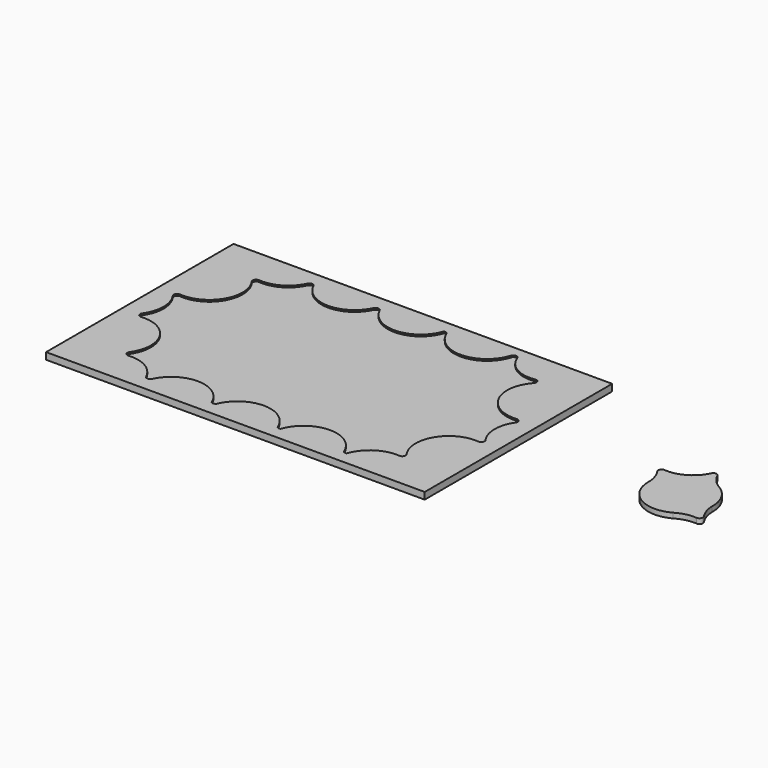
from build123d import *

# Parameters (mm, degrees)
PAD001_DEPTH         = 3
SKETCH004_W          = 769.720642
SKETCH004_H          = 484.196625
SKETCH004_W_2        = 86.21834
SKETCH004_H_2        = 85.329529
POCKET001_DEPTH      = 100
POCKET001_DEPTH_BACK = -100
SKETCH002_W          = 223
SKETCH002_H          = 138
PAD_DEPTH            = 3
PAD_DEPTH_BACK       = -1
POCKET_DEPTH         = 3


with BuildPart() as pieces:
    # Sketch003 → Pad001 (new body)
    with BuildSketch(Plane.XY):
        with BuildLine():
            ThreePointArc((-205.226021, 141.050401), (-197.53634, 132.633448), (-186.413146, 130.133278))
            ThreePointArc((-184.604126, 126.998191), (-184.513671, 129.139853), (-186.413146, 130.133278))
            ThreePointArc((-184.604126, 126.998191), (-188, 116.15736), (-184.603475, 105.316733))
            ThreePointArc((-186.413076, 102.182578), (-184.513939, 103.175545), (-184.603475, 105.316733))
            ThreePointArc((-186.413076, 102.182578), (-197.500014, 99.70344), (-205.190465, 91.341426))
            ThreePointArc((-208.809364, 91.341063), (-206.999799, 90.193237), (-205.190465, 91.341426))
            ThreePointArc((-208.809364, 91.341063), (-216.499836, 99.703353), (-227.586977, 102.182573))
            ThreePointArc((-229.396171, 105.317242), (-229.48623, 103.175836), (-227.586977, 102.182573))
            ThreePointArc((-229.396171, 105.317242), (-226, 116.158224), (-229.396506, 126.999102))
            ThreePointArc((-227.586983, 130.133289), (-229.486084, 129.140277), (-229.396506, 126.999102))
            ThreePointArc((-227.586983, 130.133289), (-216.484349, 132.62146), (-208.794156, 141.007186))
            ThreePointArc((-205.226021, 141.050401), (-207.023366, 142.125033), (-208.794156, 141.007186))
        make_face()
        with BuildLine():
            ThreePointArc((208.900742, -91.192405), (212.086998, -95.848377), (216.5, -99.363448))
            ThreePointArc((197.5, -99.363448), (207, -134.817931), (216.5, -99.363448))
            ThreePointArc((197.5, -99.363448), (201.953007, -95.805228), (205.150235, -91.086338))
            ThreePointArc((208.900742, -91.192405), (207.062429, -89.833156), (205.150235, -91.086338))
        make_face()
        with BuildLine():
            ThreePointArc((-67.190475, 140.634458), (-59.500032, 132.272432), (-48.413093, 129.793282))
            ThreePointArc((-46.60383, 126.658618), (-46.513788, 128.800055), (-48.413093, 129.793282))
            ThreePointArc((-46.60383, 126.658618), (-50, 115.817636), (-46.603494, 104.97676))
            ThreePointArc((-48.413017, 101.842573), (-46.513916, 102.835584), (-46.603494, 104.97676))
            ThreePointArc((-48.413017, 101.842573), (-54.146025, 101.451092), (-59.499796, 99.363566))
            ThreePointArc((-78.499746, 99.363301), (-68.999736, 96.817931), (-59.499796, 99.363566))
            ThreePointArc((-78.499746, 99.363301), (-83.85368, 101.451026), (-89.586907, 101.842579))
            ThreePointArc((-91.396506, 104.97676), (-91.486065, 102.835551), (-89.586907, 101.842579))
            ThreePointArc((-91.396506, 104.97676), (-88, 115.817641), (-91.396176, 126.658626))
            ThreePointArc((-89.586977, 129.793288), (-91.486228, 128.800029), (-91.396176, 126.658626))
            ThreePointArc((-89.586977, 129.793288), (-78.499829, 132.272512), (-70.809358, 140.634812))
            ThreePointArc((-67.190475, 140.634458), (-68.999804, 141.782624), (-70.809358, 140.634812))
        make_face()
        with BuildLine():
            ThreePointArc((70.809356, 140.634817), (78.499826, 132.272514), (89.586974, 129.793288))
            ThreePointArc((91.396502, 126.659096), (91.486084, 128.800278), (89.586974, 129.793288))
            ThreePointArc((91.396502, 126.659096), (88.868997, 121.498312), (88, 115.817924))
            ThreePointArc((59.500281, 99.363286), (78.500138, 99.363527), (88, 115.817924))
            ThreePointArc((59.500281, 99.363286), (54.146298, 101.451031), (48.413016, 101.842573))
            ThreePointArc((46.60381, 104.977215), (46.513777, 102.835825), (48.413016, 101.842573))
            ThreePointArc((46.60381, 104.977215), (50, 115.818206), (46.603496, 126.659098))
            ThreePointArc((48.413024, 129.793288), (46.513917, 128.800279), (46.603496, 126.659098))
            ThreePointArc((48.413024, 129.793288), (59.500172, 132.272513), (67.190643, 140.634813))
            ThreePointArc((70.809356, 140.634817), (68.999998, 141.782624), (67.190643, 140.634813))
        make_face()
        with BuildLine():
            ThreePointArc((208.809525, 140.634456), (216.499968, 132.272432), (227.586905, 129.793282))
            ThreePointArc((229.396503, 126.659097), (229.486066, 128.800309), (227.586905, 129.793282))
            ThreePointArc((229.396503, 126.659097), (226.868998, 121.498314), (226, 115.817926))
            ThreePointArc((188, 115.817931), (206.999998, 96.817931), (226, 115.817926))
            ThreePointArc((188, 115.817931), (187.131001, 121.498318), (184.603495, 126.6591))
            ThreePointArc((186.413023, 129.793288), (184.513917, 128.800279), (184.603495, 126.6591))
            ThreePointArc((186.413023, 129.793288), (197.500171, 132.272512), (205.190642, 140.634812))
            ThreePointArc((208.809525, 140.634456), (207.000197, 141.782624), (205.190642, 140.634812))
        make_face()
        with BuildLine():
            ThreePointArc((-227.579289, 14.314715), (-216.496489, 16.79651), (-208.809358, 25.156881))
            ThreePointArc((-205.190852, 25.157326), (-207.000246, 26.304694), (-208.809358, 25.156881))
            ThreePointArc((-205.190852, 25.157326), (-201.985159, 20.387577), (-197.5, 16.794483))
            ThreePointArc((-188, 0.339994), (-190.545516, 9.839997), (-197.5, 16.794483))
            ThreePointArc((-188, 0.339994), (-187.130999, -5.340395), (-184.603489, -10.501177))
            ThreePointArc((-186.41309, -13.635352), (-184.513936, -12.642381), (-184.603489, -10.501177))
            ThreePointArc((-186.41309, -13.635352), (-197.500044, -16.114508), (-205.190488, -24.476555))
            ThreePointArc((-208.80952, -24.476537), (-207.00001, -25.624693), (-205.190488, -24.476555))
            ThreePointArc((-208.80952, -24.476537), (-212.014877, -19.707537), (-216.499338, -16.114865))
            ThreePointArc((-226, 0.339999), (-223.454291, -9.160332), (-216.499338, -16.114865))
            ThreePointArc((-226, 0.339999), (-226.867774, 6.016476), (-229.39183, 11.174437))
            ThreePointArc((-227.579289, 14.314715), (-229.48624, 13.32216), (-229.39183, 11.174437))
        make_face()
        with BuildLine():
            ThreePointArc((-89.596783, 13.976182), (-78.521543, 16.442064), (-70.826555, 24.780449))
            ThreePointArc((-67.173441, 24.78044), (-68.999995, 25.965773), (-70.826555, 24.780449))
            ThreePointArc((-67.173441, 24.78044), (-59.482714, 16.444515), (-48.413017, 13.975358))
            ThreePointArc((-46.603598, 10.84102), (-46.51387, 12.982267), (-48.413017, 13.975358))
            ThreePointArc((-46.603598, 10.84102), (-49.131093, 5.680093), (-50, -0.000436))
            ThreePointArc((-59.499846, -16.454394), (-52.545582, -9.500112), (-50, -0.000436))
            ThreePointArc((-59.499846, -16.454394), (-63.984801, -20.047187), (-67.190476, -24.816529))
            ThreePointArc((-70.809524, -24.816529), (-69, -25.964693), (-67.190476, -24.816529))
            ThreePointArc((-70.809524, -24.816529), (-74.015033, -20.047368), (-78.499728, -16.45464))
            ThreePointArc((-88, 0), (-85.454404, -9.500136), (-78.499728, -16.45464))
            ThreePointArc((-88, 0), (-88.878611, 5.710976), (-91.433184, 10.893771))
            ThreePointArc((-89.596783, 13.976182), (-91.473664, 13.006128), (-91.433184, 10.893771))
        make_face()
        with BuildLine():
            ThreePointArc((59.5, 16.454483), (63.975624, 20.037216), (67.178839, 24.791855))
            ThreePointArc((70.826633, 24.780284), (69.006477, 25.965474), (67.178839, 24.791855))
            ThreePointArc((70.826633, 24.780284), (74.0336, 20.027209), (78.51249, 16.447278))
            ThreePointArc((88.000005, 0.014419), (85.454492, 9.500005), (78.51249, 16.447278))
            ThreePointArc((88.000005, 0.014419), (88.866818, -5.673421), (91.396403, -10.841022))
            ThreePointArc((89.586961, -13.975356), (91.486124, -12.982278), (91.396403, -10.841022))
            ThreePointArc((89.586961, -13.975356), (83.889969, -14.358827), (78.564163, -16.417604))
            ThreePointArc((59.564019, -16.491611), (69.074006, -19.000144), (78.564163, -16.417604))
            ThreePointArc((59.564019, -16.491611), (54.182252, -14.374976), (48.413035, -13.975357))
            ThreePointArc((46.603492, -10.841174), (46.513921, -12.982356), (48.413035, -13.975357))
            ThreePointArc((46.603492, -10.841174), (49.131, -5.68039), (50, 0))
            ThreePointArc((59.5, 16.454483), (52.545517, 9.5), (50, 0))
        make_face()
        with BuildLine():
            ThreePointArc((186.41303, 13.975357), (197.487284, 16.447148), (205.177946, 24.789964))
            ThreePointArc((208.822053, 24.789966), (206.999999, 25.965271), (205.177946, 24.789964))
            ThreePointArc((208.822053, 24.789966), (211.827202, 20.254645), (215.994445, 16.756911))
            ThreePointArc((226.009133, -0.589038), (223.470294, 9.509128), (215.994445, 16.756911))
            ThreePointArc((226.009133, -0.589038), (226.95924, -5.960787), (229.396505, -10.841169))
            ThreePointArc((227.586987, -13.975358), (229.486086, -12.982344), (229.396505, -10.841169))
            ThreePointArc((227.586987, -13.975358), (221.552947, -14.436724), (215.970048, -16.772049))
            ThreePointArc((187.989955, -0.617735), (197.489961, -16.471871), (215.970048, -16.772049))
            ThreePointArc((187.989955, -0.617735), (187.220973, 5.384808), (184.603552, 10.841086))
            ThreePointArc((186.41303, 13.975357), (184.513893, 12.982308), (184.603552, 10.841086))
        make_face()
        with BuildLine():
            ThreePointArc((-184.807647, -104.936665), (-187.184407, -109.970903), (-188, -115.477931))
            ThreePointArc((-226, -115.477929), (-207.000001, -134.477931), (-188, -115.477931))
            ThreePointArc((-226, -115.477929), (-226.869031, -109.797441), (-229.396626, -104.636587))
            ThreePointArc((-227.586917, -101.502578), (-229.486015, -102.495464), (-229.396626, -104.636587))
            ThreePointArc((-227.586917, -101.502578), (-221.853828, -101.11106), (-216.5, -99.023448))
            ThreePointArc((-197.500001, -99.023448), (-207, -96.477931), (-216.5, -99.023448))
            ThreePointArc((-197.500001, -99.023448), (-192.286311, -101.079166), (-186.699693, -101.524418))
            ThreePointArc((-184.807647, -104.936665), (-184.389947, -102.474375), (-186.699693, -101.524418))
        make_face()
        with BuildLine():
            ThreePointArc((-78.499945, -99.363416), (-74.015619, -95.771201), (-70.810155, -91.002743))
            ThreePointArc((-67.193838, -90.994257), (-69.004684, -89.853222), (-70.810155, -91.002743))
            ThreePointArc((-67.193838, -90.994257), (-63.987509, -95.767798), (-59.499939, -99.363483))
            ThreePointArc((-59.500001, -132.272414), (-50, -115.817966), (-59.499939, -99.363483))
            ThreePointArc((-59.500001, -132.272414), (-63.984832, -135.865152), (-67.19044, -140.634382))
            ThreePointArc((-70.809522, -140.634463), (-68.999956, -141.782624), (-67.19044, -140.634382))
            ThreePointArc((-70.809522, -140.634463), (-74.01514, -135.865182), (-78.500005, -132.272411))
            ThreePointArc((-78.499945, -99.363416), (-88, -115.817896), (-78.500005, -132.272411))
        make_face()
        with BuildLine():
            ThreePointArc((70.809505, -91.001361), (78.49998, -99.363437), (89.586983, -101.842573))
            ThreePointArc((91.396507, -104.976759), (91.486084, -102.835583), (89.586983, -101.842573))
            ThreePointArc((91.396507, -104.976759), (88.868995, -110.137557), (88, -115.817962))
            ThreePointArc((59.499973, -99.363464), (59.5, -132.272413), (88, -115.817962))
            ThreePointArc((59.499973, -99.363464), (63.98487, -95.770668), (67.190502, -91.001348))
            ThreePointArc((70.809505, -91.001361), (69.000007, -89.853237), (67.190502, -91.001348))
        make_face()
    extrude(amount=PAD001_DEPTH)

    # Sketch004 → Pocket001 (cut, two sides)
    with BuildSketch(Plane.XY) as pocket001_sk:
        with Locations((-6.957947, 15.610642)):
            Rectangle(SKETCH004_W, SKETCH004_H)
        with Locations((212.1809, 1.74183)):
            Rectangle(SKETCH004_W_2, SKETCH004_H_2, mode=Mode.SUBTRACT)
    extrude(amount=-POCKET001_DEPTH, mode=Mode.SUBTRACT)
    extrude(pocket001_sk.sketch, amount=-POCKET001_DEPTH_BACK, mode=Mode.SUBTRACT)


with BuildPart() as board:
    # Sketch002 → Pad (new body, two sides)
    with BuildSketch(Plane.XY) as pad_sk:
        Rectangle(SKETCH002_W, SKETCH002_H)
    extrude(amount=-PAD_DEPTH)
    extrude(pad_sk.sketch, amount=-PAD_DEPTH_BACK)

    # Sketch → Pocket (cut)
    with BuildSketch(Plane.XY):
        with BuildLine():
            ThreePointArc((-101.04429, -11.210054), (-97.5, 0), (-101.04429, 11.210054))
            ThreePointArc((-99.230336, 14.351913), (-101.139857, 13.359803), (-101.04429, 11.210054))
            ThreePointArc((-99.230336, 14.351913), (-80.612505, 24.024991), (-81.54429, 44.985044))
            ThreePointArc((-79.730336, 48.126904), (-81.639857, 47.134794), (-81.54429, 44.985044))
            ThreePointArc((-79.730336, 48.126904), (-68.25, 50.662486), (-60.313953, 59.336958))
            ThreePointArc((-56.686047, 59.336958), (-58.5, 60.494596), (-60.313953, 59.336958))
            ThreePointArc((-56.686047, 59.336958), (-39, 48.049981), (-21.313953, 59.336958))
            ThreePointArc((-17.686047, 59.336958), (-19.5, 60.494596), (-21.313953, 59.336958))
            ThreePointArc((-17.686047, 59.336958), (1.086297, 48.080262), (18.489909, 61.355365))
            ThreePointArc((20.938216, 60.200018), (19.939256, 61.254901), (18.489909, 61.355365))
            ThreePointArc((20.938216, 60.200018), (39.686644, 48.062074), (57.534294, 61.489457))
            ThreePointArc((61.407371, 61.863545), (59.323115, 63.205883), (57.534294, 61.489457))
            ThreePointArc((61.407371, 61.863545), (69.09703, 52.437469), (81.069066, 50.280594))
            ThreePointArc((82.902685, 46.970282), (83.168551, 49.280535), (81.069066, 50.280594))
            ThreePointArc((82.902685, 46.970282), (79.858651, 25.058334), (99.112471, 14.16384))
            ThreePointArc((100.925073, 11.03842), (101.006459, 13.173944), (99.112471, 14.16384))
            ThreePointArc((100.925073, 11.03842), (97.502659, -0.322002), (101.298343, -11.563216))
            ThreePointArc((99.283231, -14.356698), (101.088147, -13.535142), (101.298343, -11.563216))
            ThreePointArc((99.283231, -14.356698), (80.512387, -24.200494), (81.811493, -45.356043))
            ThreePointArc((79.788374, -48.132162), (81.588126, -47.318504), (81.811493, -45.356043))
            ThreePointArc((79.788374, -48.132162), (67.339536, -51.221953), (59.503094, -61.376289))
            ThreePointArc((57.303847, -60.82546), (58.317881, -61.442601), (59.503094, -61.376289))
            ThreePointArc((57.303847, -60.82546), (38.719209, -48.052003), (20.510104, -61.355327))
            ThreePointArc((18.302884, -60.822841), (19.323606, -61.432667), (20.510104, -61.355327))
            ThreePointArc((18.302884, -60.822841), (0.22172, -48.051242), (-18.145183, -60.408391))
            ThreePointArc((-20.854817, -60.408391), (-19.5, -60.937176), (-18.145183, -60.408391))
            ThreePointArc((-20.854817, -60.408391), (-38.417167, -48.058694), (-56.686047, -59.336958))
            ThreePointArc((-60.313953, -59.336958), (-58.5, -60.494596), (-56.686047, -59.336958))
            ThreePointArc((-60.313953, -59.336958), (-68.25, -50.662486), (-79.730336, -48.126904))
            ThreePointArc((-81.54429, -44.985044), (-81.639857, -47.134794), (-79.730336, -48.126904))
            ThreePointArc((-81.54429, -44.985044), (-80.612505, -24.024991), (-99.230336, -14.351913))
            ThreePointArc((-101.04429, -11.210054), (-101.139857, -13.359803), (-99.230336, -14.351913))
        make_face()
    extrude(amount=POCKET_DEPTH, mode=Mode.SUBTRACT)


solid = Compound([pieces.part, board.part])
